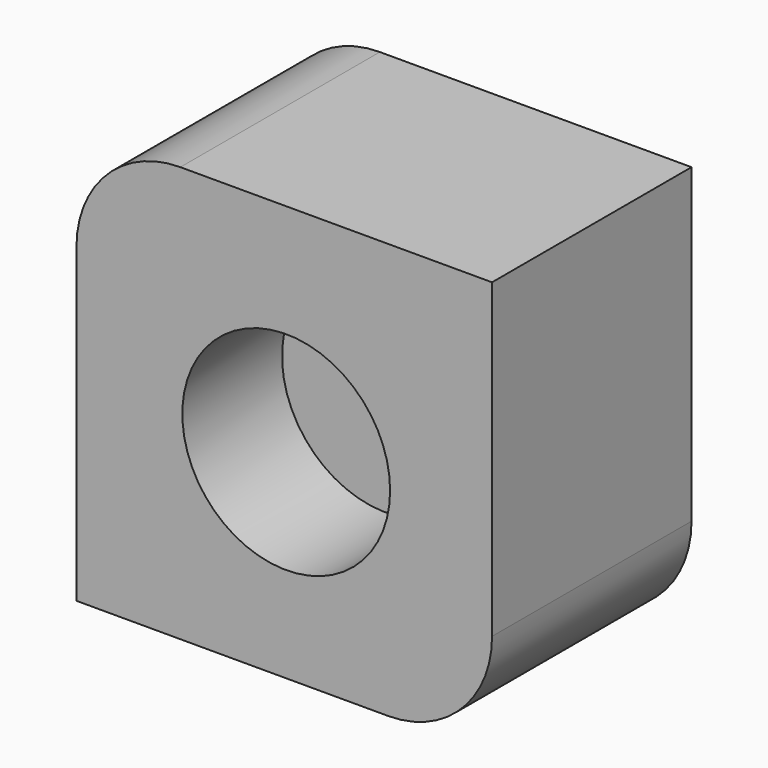
from build123d import *

# Parameters (mm, degrees)
F1_DEPTH = 60
F2_R     = 25
F3_DEPTH = 30


with BuildPart() as f1:
    # F0 (on Front) → F1 (new body)
    with BuildSketch(Plane.XZ):
        with BuildLine():
            Line((57.16253, 52.086295), (-17.83747, 52.086295))
            ThreePointArc((-17.83747, 52.086295), (-35.51514, 44.763965), (-42.83747, 27.086295))
            Line((-42.83747, 27.086295), (-42.83747, -47.913705))
            Line((-42.83747, -47.913705), (32.16253, -47.913705))
            ThreePointArc((32.16253, -47.913705), (49.8402, -40.591374), (57.16253, -22.913705))
            Line((57.16253, -22.913705), (57.16253, 52.086295))
        make_face()
    extrude(amount=F1_DEPTH)

    # F2 (on face) → F3 (cut)
    with BuildSketch(Plane.XZ.offset(60)):
        with Locations((7.631627, 0)):
            Circle(F2_R)
    extrude(amount=-F3_DEPTH, mode=Mode.SUBTRACT)


solid = f1.part
